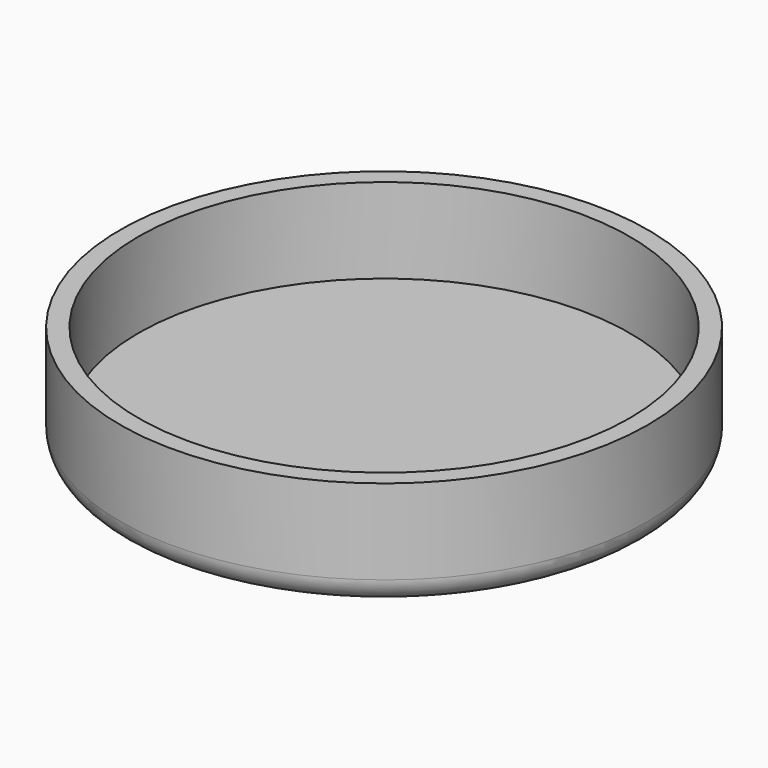
from build123d import *

# Parameters (mm, degrees)
F0_R     = 21.75
F1_DEPTH = 2
F2_R     = 21.75
F2_R_2   = 20.25
F3_DEPTH = 9
F4_R     = 2


with BuildPart() as f1:
    # F0 (on Top) → F1 (new body)
    with BuildSketch(Plane.XY):
        Circle(F0_R)
    extrude(amount=F1_DEPTH)

    # F2 (on Top) → F3 (join)
    with BuildSketch(Plane.XY):
        Circle(F2_R)
        Circle(F2_R_2, mode=Mode.SUBTRACT)
    extrude(amount=F3_DEPTH)

    # F4
    f4_edges = [f1.edges().sort_by_distance(p)[0] for p in [
        (-21.75, 0, 0),
    ]]
    fillet(f4_edges, radius=F4_R)


solid = f1.part
